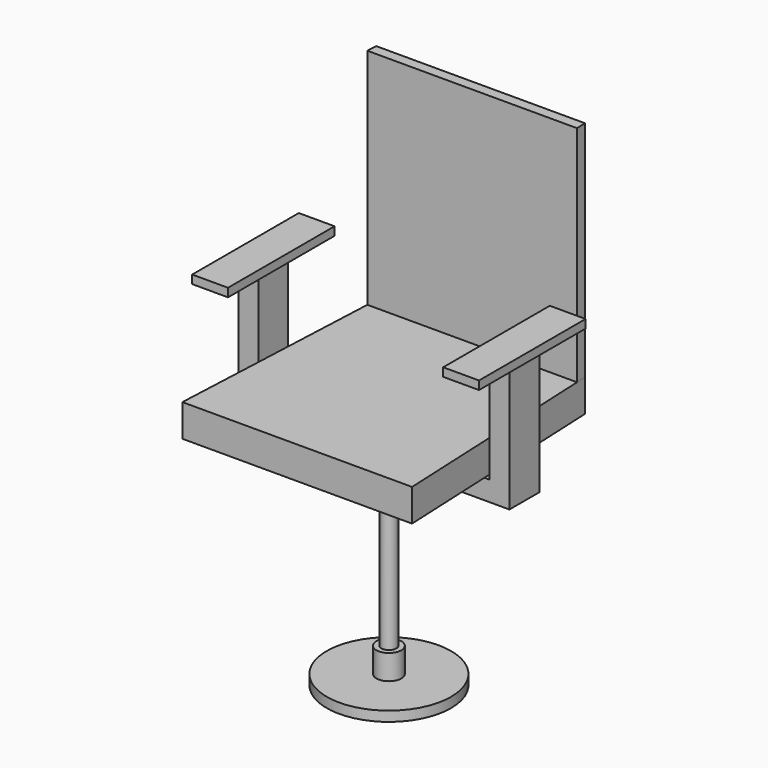
from build123d import *

# Parameters (mm, degrees)
SKETCH_R     = 125
PAD_DEPTH    = 20
SKETCH001_R  = 25
PAD001_DEPTH = 50
SKETCH002_R  = 15
PAD002_DEPTH = 300
SKETCH003_W  = 200
SKETCH003_H  = 200
PAD003_DEPTH = 45
SKETCH009_W  = 200
SKETCH009_H  = 62.5
PAD009_DEPTH = 40
SKETCH004_W  = 545
SKETCH004_H  = 75
PAD004_DEPTH = 40
SKETCH005_W  = 40
SKETCH005_H  = 75
PAD005_DEPTH = 216
SKETCH006_W  = 72
SKETCH006_H  = 268
PAD006_DEPTH = 17
PAD007_DEPTH = 65
PAD008_DEPTH = 450


with BuildPart() as body1:
    # Sketch → Pad (new body)
    with BuildSketch(Plane.XY):
        Circle(SKETCH_R)
    extrude(amount=PAD_DEPTH)

    # Sketch001 (on Face3 of Pad) → Pad001 (join)
    with BuildSketch(Plane.XY.offset(20)):
        Circle(SKETCH001_R)
    extrude(amount=PAD001_DEPTH)


with BuildPart() as body2:
    # Sketch002 (on CopyPad) → Pad002 (new body)
    with BuildSketch(Plane.XY.offset(70)):
        Circle(SKETCH002_R)
    extrude(amount=PAD002_DEPTH)


with BuildPart() as body3:
    # Sketch003 (on Face1 of CopyPad002) → Pad003 (new body)
    with BuildSketch(Plane.XY.offset(370)):
        Rectangle(SKETCH003_W, SKETCH003_H)
    extrude(amount=PAD003_DEPTH)

    # Sketch009 (on Face6 of Pad003) → Pad009 (join)
    with BuildSketch(Plane.XY.offset(415)):
        with Locations((0, 68.75)):
            Rectangle(SKETCH009_W, SKETCH009_H)
        with Locations((0, -68.75)):
            Rectangle(SKETCH009_W, SKETCH009_H)
    extrude(amount=PAD009_DEPTH)


with BuildPart() as body4:
    # Sketch004 (on Face1 of CopyPad003) → Pad004 (new body)
    with BuildSketch(Plane.XY.offset(415)):
        Rectangle(SKETCH004_W, SKETCH004_H)
    extrude(amount=PAD004_DEPTH)

    # Sketch005 (on Face6 of Pad004) → Pad005 (join)
    with BuildSketch(Plane.XY.offset(455)):
        with Locations((-252.5, 0)):
            Rectangle(SKETCH005_W, SKETCH005_H)
        with Locations((252.5, 0)):
            Rectangle(SKETCH005_W, SKETCH005_H)
    extrude(amount=PAD005_DEPTH)

    # Sketch006 (on Face5 of Pad005) → Pad006 (join)
    with BuildSketch(Plane.XY.offset(671)):
        with Locations((-252.5, 0)):
            Rectangle(SKETCH006_W, SKETCH006_H)
        with Locations((252.5, 0)):
            Rectangle(SKETCH006_W, SKETCH006_H)
    extrude(amount=PAD006_DEPTH)


with BuildPart() as body5:
    # Sketch007 (on Face1 of CopyPad006) → Pad007 (new body)
    with BuildSketch(Plane.XY.offset(455)):
        Polygon((-210, 230.5), (-231, -230.5), (231, -230.5), (210, 230.5), align=None)
    extrude(amount=PAD007_DEPTH)

    # Sketch008 (on Face6 of Pad007) → Pad008 (join)
    with BuildSketch(Plane.XY.offset(520)):
        Polygon((-210, 230.5), (210, 230.5), (210.956616, 209.5), (-210.956616, 209.5), align=None)
    extrude(amount=PAD008_DEPTH)


solid = Compound([body1.part, body2.part, body3.part, body4.part, body5.part])
